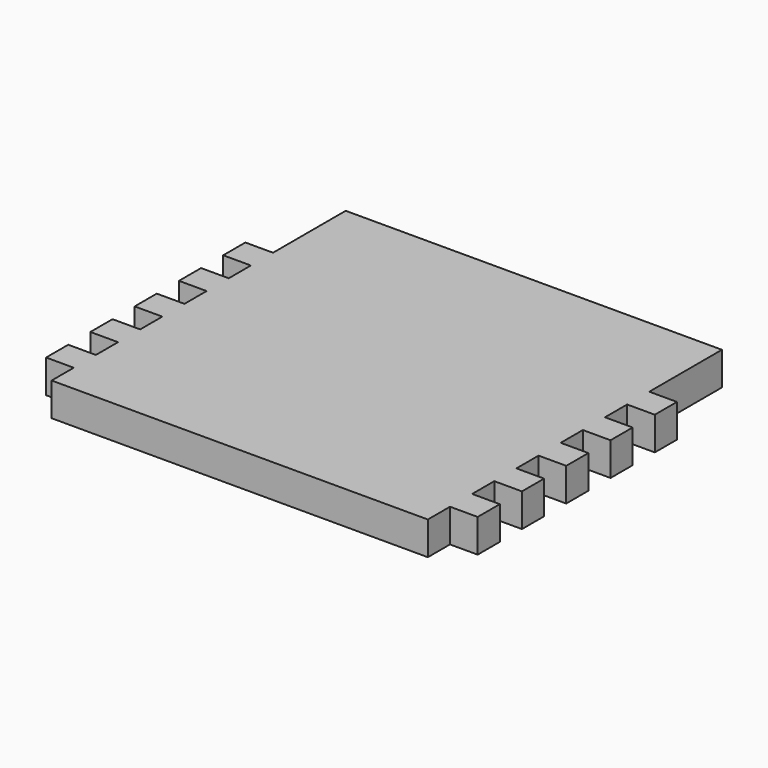
from build123d import *

# Parameters (mm, degrees)
F1_DEPTH = 12


with BuildPart() as f1:
    # F0 (on Top) → F1 (new body)
    with BuildSketch(Plane.XY):
        Polygon((0, -66.40626), (0, 66.40626), (-67.968759, 66.40626), (-67.968759, 33.59374), (-77.968759, 33.59374), (-77.968759, 23.59374), (-67.968759, 23.59374), (-67.968759, 13.59374), (-77.968759, 13.59374), (-77.968759, 3.59374), (-67.968759, 3.59374), (-67.968759, -6.40626), (-77.968759, -6.40626), (-77.968759, -16.40626), (-67.968759, -16.40626), (-67.968759, -26.40626), (-77.968759, -26.40626), (-77.968759, -36.40626), (-67.968759, -36.40626), (-67.968759, -46.40626), (-77.968759, -46.40626), (-77.968759, -56.40626), (-67.968759, -56.40626), (-67.968759, -66.40626), align=None)
        Polygon((67.968759, 33.59374), (67.968759, 66.40626), (0, 66.40626), (0, -66.40626), (67.968759, -66.40626), (67.968759, -56.40626), (77.968759, -56.40626), (77.968759, -46.40626), (67.968759, -46.40626), (67.968759, -36.40626), (77.968759, -36.40626), (77.968759, -26.40626), (67.968759, -26.40626), (67.968759, -16.40626), (77.968759, -16.40626), (77.968759, -6.40626), (67.968759, -6.40626), (67.968759, 3.59374), (77.968759, 3.59374), (77.968759, 13.59374), (67.968759, 13.59374), (67.968759, 23.59374), (77.968759, 23.59374), (77.968759, 33.59374), align=None)
    extrude(amount=F1_DEPTH)


solid = f1.part
